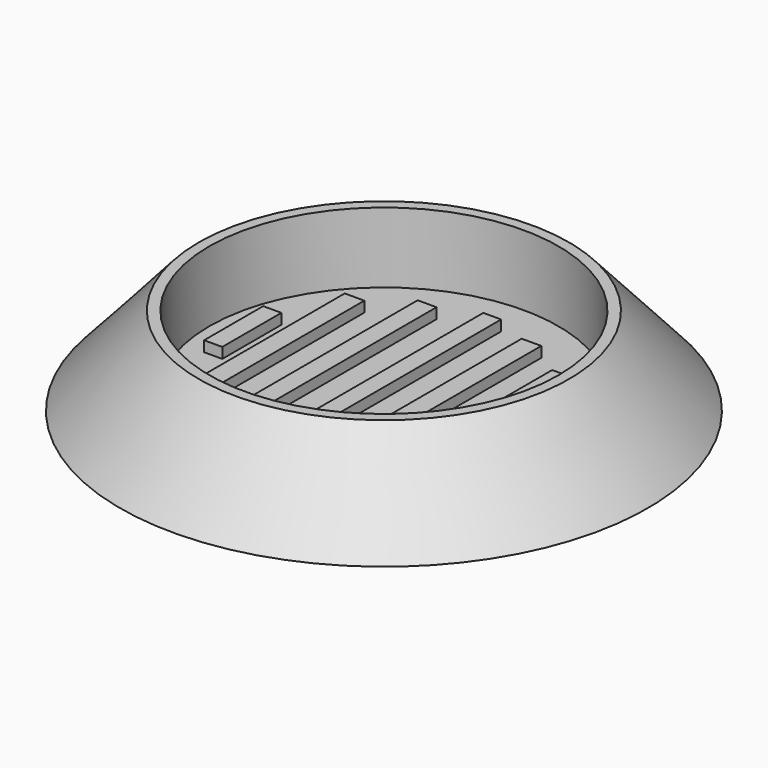
from build123d import *

# Parameters (mm, degrees)
F2_W     = 2.572353
F2_H     = 39.086354
F2_W_2   = 2.822399
F2_H_2   = 34.651156
F2_W_3   = 2.620801
F2_H_3   = 26.990356
F2_W_4   = 2.419203
F2_H_4   = 10.660762
F2_W_5   = 2.721599
F2_W_6   = 2.620799
F3_DEPTH = 1.524


with BuildPart() as f1:
    # F0 (on Front) → F1 (revolve)
    with BuildSketch(Plane.XZ):
        Polygon((0, 30.272386), (-1.524, 30.272386), (-12.895514, 17.572386), (25.204486, 17.572386), (25.204486, 20.112386), (0, 20.112386), align=None)
    revolve(axis=Axis((25.204486, 0, 18.842386), (0, 0, 1)))

    # F2 (on face) → F3 (join)
    with BuildSketch(Plane.XY.offset(20.112386)):
        with Locations((25.204485, 0)):
            Rectangle(F2_W, F2_H)
        with Locations((32.644849, 0)):
            Rectangle(F2_W_2, F2_H_2)
        with Locations((40.003248, 0)):
            Rectangle(F2_W_3, F2_H_3)
        with Locations((46.073451, 0)):
            Rectangle(F2_W_4, F2_H_4)
        with Locations((17.57526, 0)):
            Rectangle(F2_W_5, F2_H_2)
        with Locations((10.166462, 0)):
            Rectangle(F2_W_2, F2_H_3)
        with Locations((4.824063, 0)):
            Rectangle(F2_W_6, F2_H_4)
    extrude(amount=F3_DEPTH)


solid = f1.part
